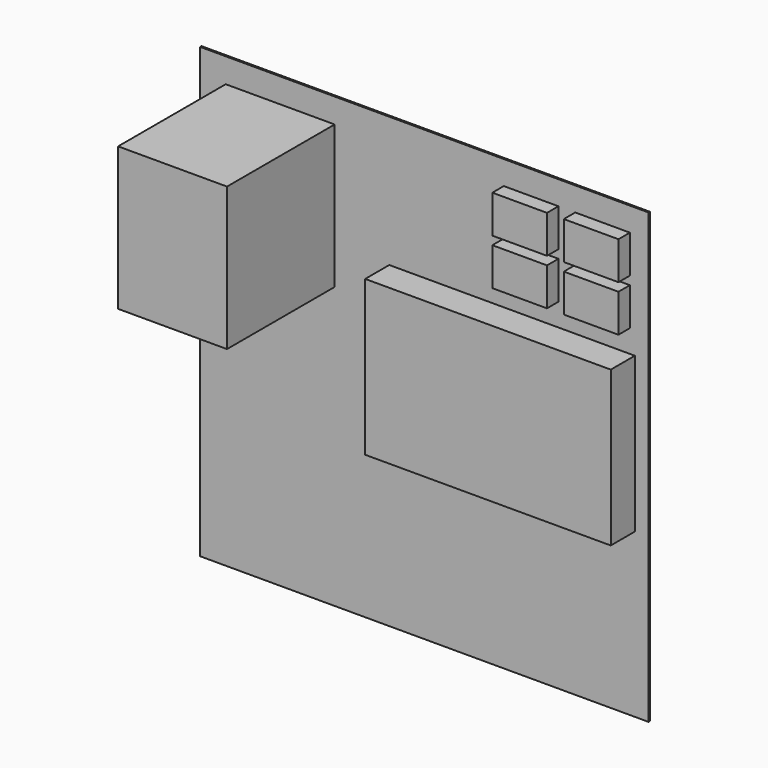
from build123d import *

# Parameters (mm, degrees)
F0_W     = 533.4
F0_H     = 533.4
F1_DEPTH = 2
F2_W     = 292.1
F2_H     = 184.15
F3_DEPTH = 35.814
F4_W     = 65
F4_H     = 45
F5_DEPTH = 17
F6_W     = 129.54
F6_H     = 170.18
F7_DEPTH = 160.02


with BuildPart() as f1:
    # F0 (on Front) → F1 (new body)
    with BuildSketch(Plane.XZ):
        Rectangle(F0_W, F0_H)
    extrude(amount=F1_DEPTH)

    # F2 (on face) → F3 (join)
    with BuildSketch(Plane.XZ.offset(2)):
        with Locations((104.35, 19.375)):
            Rectangle(F2_W, F2_H)
    extrude(amount=F3_DEPTH)

    # F4 (on face) → F5 (join)
    with BuildSketch(Plane.XZ.offset(2)):
        with Locations((127, 215.9)):
            Rectangle(F4_W, F4_H)
        with Locations((127, 160.9)):
            Rectangle(F4_W, F4_H)
        with Locations((212, 160.9)):
            Rectangle(F4_W, F4_H)
        with Locations((212, 215.9)):
            Rectangle(F4_W, F4_H)
    extrude(amount=F5_DEPTH)

    # F6 (on face) → F7 (join)
    with BuildSketch(Plane.XZ.offset(2)):
        with Locations((-171.45, 152.4)):
            Rectangle(F6_W, F6_H)
    extrude(amount=F7_DEPTH)


solid = f1.part
